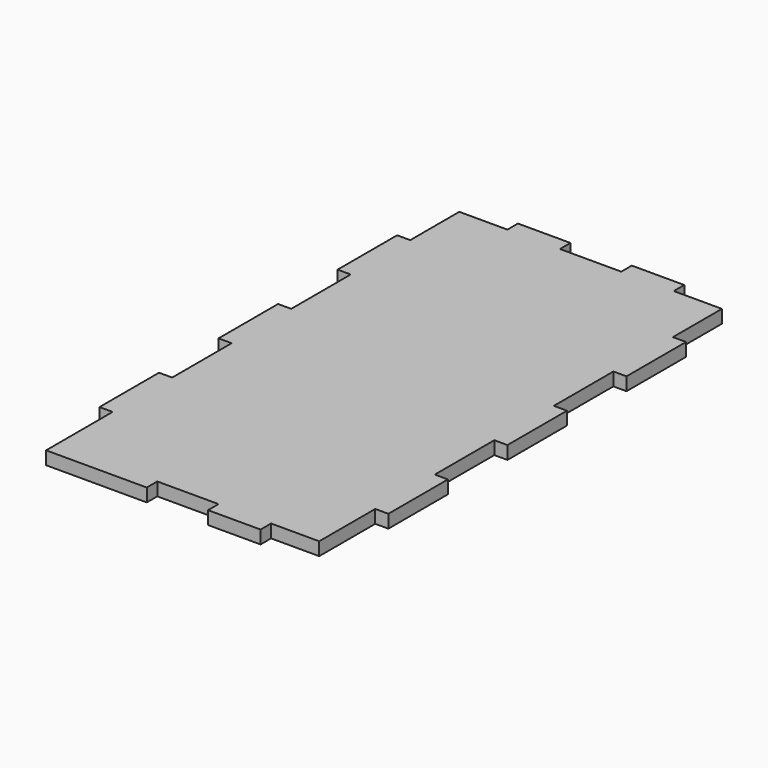
from build123d import *

# Parameters (mm, degrees)
F1_DEPTH = 3


with BuildPart() as f1:
    # F0 (on Top) → F1 (new body)
    with BuildSketch(Plane.XY):
        Polygon((-19, 57.5), (-30, 57.5), (-30, 43.5), (-33, 43.5), (-33, 26.5), (-30, 26.5), (-30, 9.5), (-33, 9.5), (-33, -7.5), (-30, -7.5), (-30, -24.5), (-33, -24.5), (-33, -41.5), (-30, -41.5), (-30, -60.5), (-7, -60.5), (-7, -57.5), (7, -57.5), (7, -60.5), (19, -60.5), (19, -57.5), (30, -57.5), (30, -41.5), (33, -41.5), (33, -24.5), (30, -24.5), (30, -7.5), (33, -7.5), (33, 9.5), (30, 9.5), (30, 26.5), (33, 26.5), (33, 43.5), (30, 43.5), (30, 57.5), (19, 57.5), (19, 60.5), (7, 60.5), (7, 57.5), (-7, 57.5), (-7, 60.5), (-19, 60.5), align=None)
    extrude(amount=F1_DEPTH)


solid = f1.part
